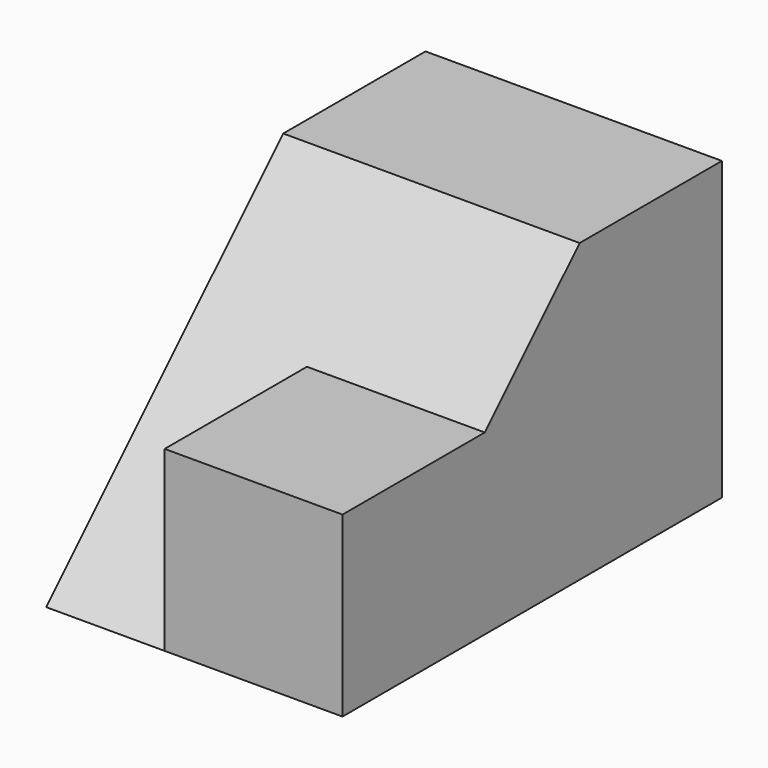
from build123d import *

# Parameters (mm, degrees)
F1_DEPTH = 31.75
F3_DEPTH = 12.7


with BuildPart() as f1:
    # F0 (on Right) → F1 (new body)
    with BuildSketch(Plane.YZ):
        Polygon((-50.8, 0), (0, 0), (0, 31.75), (-19.05, 31.75), (-31.75, 19.05), (-50.8, 19.05), align=None)
    extrude(amount=F1_DEPTH)

    # F2 (on face) → F3 (cut)
    with BuildSketch(Plane(origin=(0, 0, 0), x_dir=(0, -1, 0), z_dir=(-1, 0, 0))):
        Polygon((50.8, 19.05), (31.75, 19.05), (50.8, 0), align=None)
    extrude(amount=-F3_DEPTH, mode=Mode.SUBTRACT)


solid = f1.part
